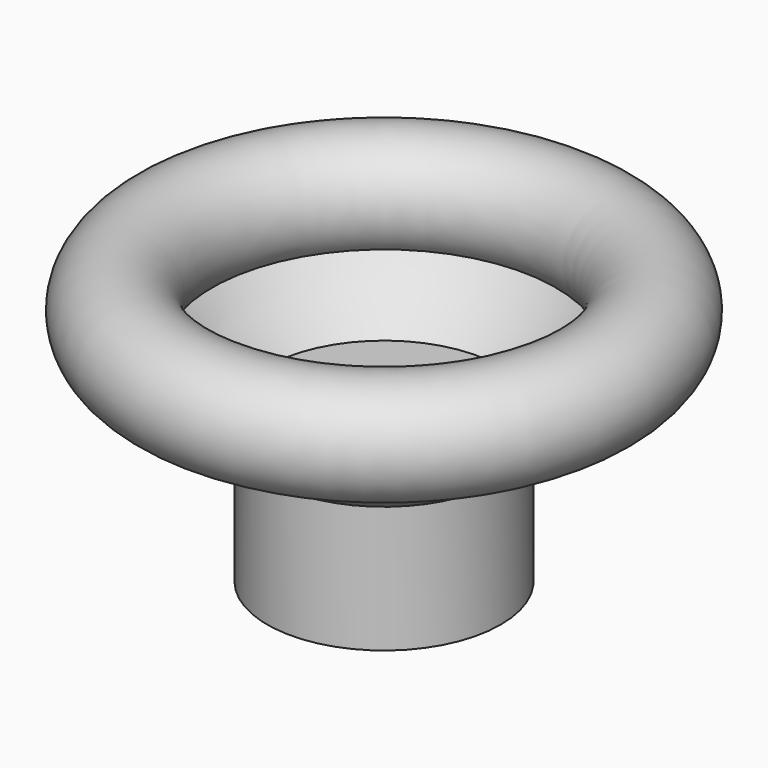
from build123d import *


with BuildPart() as f1:
    # F0 (on Front) → F1 (revolve)
    with BuildSketch(Plane.XZ):
        with BuildLine():
            Line((4, 38.1), (4, 0))
            Line((4, 0), (29.4, 0))
            Line((29.4, 0), (29.4, 31.8565219641))
            add(Edge.make_bspline(
                [(29.4, 31.8565219641), (32.1337886081, 33.6477236396), (37.5185086104, 37.1758372108), (44.5878625881, 44.0787832384), (48.1943344148, 47.7299323986)],
                knots=[0, 0, 0, 0, 0.4160736009, 0.8195364378, 0.8195364378, 0.8195364378, 0.8195364378], degree=3))
            ThreePointArc((48.1943344148, 47.7299323986), (60.6114798997, 71.2237604691), (43.2942467959, 51.0678953914))
            add(Edge.make_bspline(
                [(29.4, 38.1), (32.4152587252, 40.4343798209), (37.6495987817, 44.4867474004), (41.6478211936, 49.0932115897), (43.2942467959, 51.0678953914)],
                knots=[0, 0, 0, 0, 0.51491669, 0.8938698563, 0.8938698563, 0.8938698563, 0.8938698563], degree=3))
            Line((29.4, 38.1), (4, 38.1))
        make_face()
    revolve(axis=Axis((0, 0, -0.3536045551), (0, 0, -1)))


solid = f1.part
